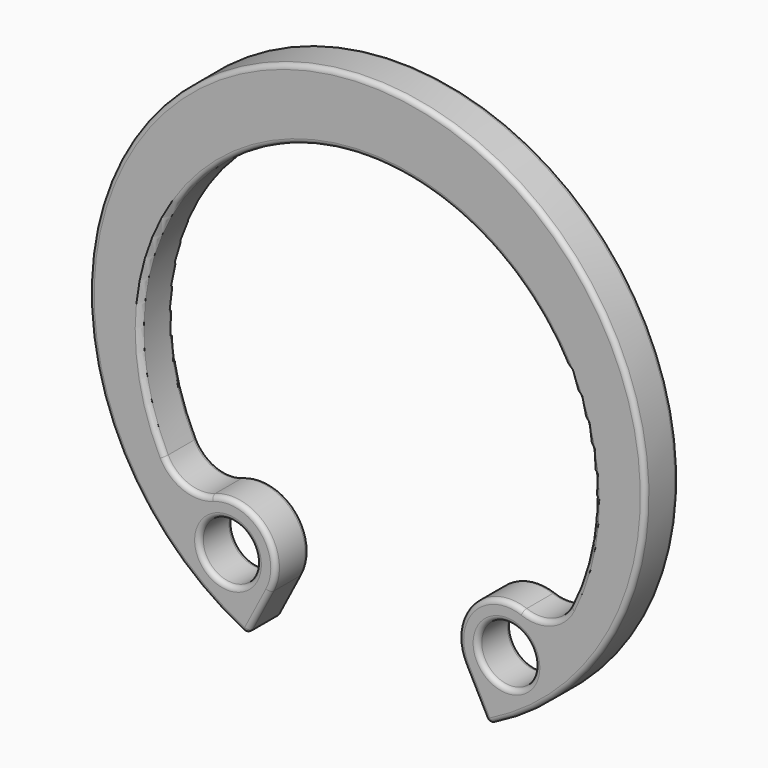
from build123d import *

# Parameters (mm, degrees)
F0_R     = 0.75
F1_DEPTH = 1.1
F2_R     = 0.127


with BuildPart() as f1:
    # F0 (on Front) → F1 (new body)
    with BuildSketch(Plane.XZ):
        with BuildLine():
            Line((2.548871, -5.396336), (3.164291, -6.578546))
            ThreePointArc((3.164291, -6.578546), (0, 7.3), (-3.164291, -6.578546))
            Line((-3.164291, -6.578546), (-2.548871, -5.396336))
            ThreePointArc((-2.548871, -5.396336), (-2.719547, -3.99302), (-4.090029, -3.646318))
            ThreePointArc((-4.090029, -3.646318), (-4.802282, -3.638534), (-5.328668, -3.158657))
            ThreePointArc((-5.328668, -3.158657), (0, 5.5), (5.328668, -3.158657))
            ThreePointArc((5.328668, -3.158657), (4.802282, -3.638534), (4.090029, -3.646318))
            ThreePointArc((4.090029, -3.646318), (2.719547, -3.99302), (2.548871, -5.396336))
        make_face()
        with Locations((-3.657635, -4.81915)):
            Circle(F0_R, mode=Mode.SUBTRACT)
        with Locations((3.657635, -4.81915)):
            Circle(F0_R, mode=Mode.SUBTRACT)
    extrude(amount=F1_DEPTH)

    # F2
    f2_edges = [f1.edges().sort_by_distance(p)[0] for p in [
        (0, -1.1, 5.5),
        (4.802282, -1.1, -3.638534),
        (2.719547, -1.1, -3.99302),
        (2.856581, -1.1, -5.987441),
        (0, -1.1, 7.3),
        (-2.856581, -1.1, -5.987441),
        (-2.719547, -1.1, -3.99302),
        (-4.802282, -1.1, -3.638534),
        (-4.407635, -1.1, -4.81915),
        (2.907635, -1.1, -4.81915),
        (0, 0, 5.5),
        (4.802282, 0, -3.638534),
        (2.719547, 0, -3.99302),
        (2.856581, 0, -5.987441),
        (0, 0, 7.3),
        (-2.856581, 0, -5.987441),
        (-2.719547, 0, -3.99302),
        (-4.802282, 0, -3.638534),
        (-4.407635, 0, -4.81915),
        (2.907635, 0, -4.81915),
        (-3.164291, -0.55, -6.578546),
        (3.164291, -0.55, -6.578546),
    ]]
    fillet(f2_edges, radius=F2_R)


solid = f1.part
